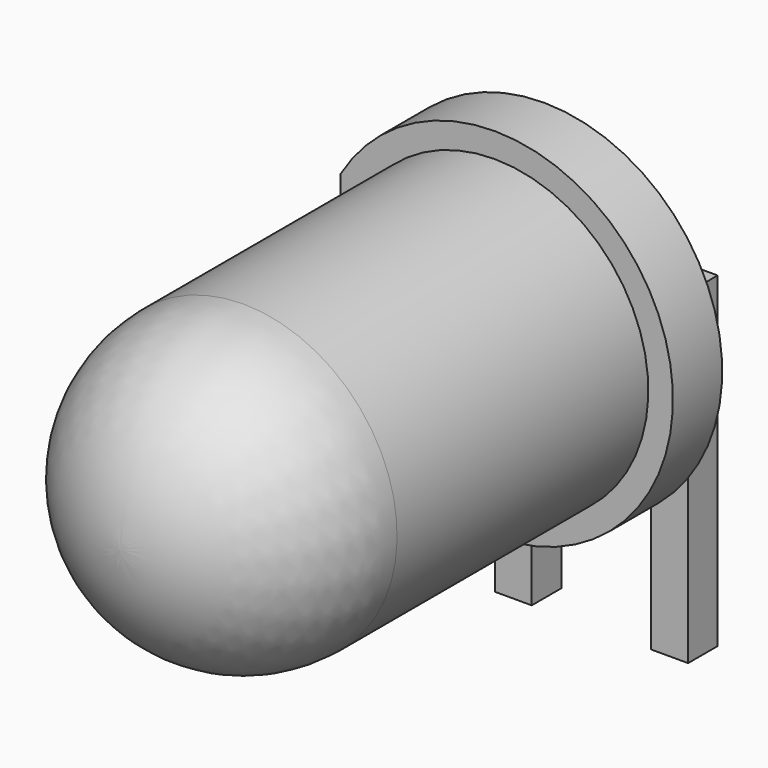
from build123d import *

# Parameters (mm, degrees)
PAD001_DEPTH   = 0.6
SKETCH002_W    = 2.54
SKETCH002_H    = 0.6
PAD002_DEPTH   = 1
SKETCH004_R    = 2.9
SKETCH004_R_2  = 2.5
PAD003_DEPTH   = 1
SKETCH006_W    = 0.4
SKETCH006_H    = 5.8
POCKET_DEPTH   = 1.001
SKETCH_W       = 0.6
SKETCH_H       = 0.6
PAD_DEPTH      = 2.7
PAD_DEPTH_BACK = 2


with BuildPart() as pad001:
    # Sketch001 → Pad001 (new body)
    with BuildSketch(Plane.XY.offset(2.7)):
        Polygon((0.3, 0.3), (-0.3, 0.3), (-0.3, -0.3), (0, -1.77), (0.6, -1.77), (0.3, -0.3), align=None)
        Polygon((2.84, 0.3), (2.24, 0.3), (2.24, -0.3), (1.94, -1.77), (2.54, -1.77), (2.84, -0.3), align=None)
    extrude(amount=PAD001_DEPTH)


with BuildPart() as pad002:
    # Sketch002 → Pad002 (new body)
    with BuildSketch(Plane.XZ.offset(1.77)):
        with Locations((1.27, 3)):
            Rectangle(SKETCH002_W, SKETCH002_H)
    extrude(amount=PAD002_DEPTH)


with BuildPart() as revolution:
    # Sketch003 → Revolution (revolve)
    with BuildSketch(Plane.YZ.offset(1.27)):
        with BuildLine():
            Line((-1.27, 3), (-9.87, 3))
            ThreePointArc((-7.37, 5.5), (-9.137767, 4.767767), (-9.87, 3))
            Line((-1.27, 5.5), (-7.37, 5.5))
            Line((-1.27, 3), (-1.27, 5.5))
        make_face()
    revolve(axis=Axis((1.27, -5.810397, 3), (0, -1, 0)))


with BuildPart() as revolution001:
    # Sketch005 → Revolution001 (revolve)
    with BuildSketch(Plane.YZ.offset(1.27)):
        Polygon((-2.47, 3), (-2.97, 3), (-2.97, 3.5), align=None)
    revolve(axis=Axis((1.27, -3.977201, 3), (0, -1, 0)))


with BuildPart() as pocket:
    # Sketch004 → Pad003 (new body)
    with BuildSketch(Plane.XZ.offset(1.27)):
        with Locations((1.27, 3)):
            Circle(SKETCH004_R)
        with Locations((1.27, 3)):
            Circle(SKETCH004_R_2, mode=Mode.SUBTRACT)
    extrude(amount=PAD003_DEPTH)

    # Sketch006 → Pocket (cut, through all)
    with BuildSketch(Plane.XZ.offset(2.27)):
        with Locations((-1.43, 3)):
            Rectangle(SKETCH006_W, SKETCH006_H)
    extrude(amount=-POCKET_DEPTH, mode=Mode.SUBTRACT)


with BuildPart() as obj1:
    # Sketch → Pad (new body, two sides)
    with BuildSketch(Plane.XY) as pad_sk:
        Rectangle(SKETCH_W, SKETCH_H)
        with Locations((2.54, 0)):
            Rectangle(SKETCH_W, SKETCH_H)
    extrude(amount=PAD_DEPTH)
    extrude(pad_sk.sketch, amount=-PAD_DEPTH_BACK)

    # obj1: union Pad001, Pad002, Revolution, Revolution001, Pocket
    add(pad001.part)
    add(pad002.part)
    add(revolution.part)
    add(revolution001.part)
    add(pocket.part)


solid = obj1.part
